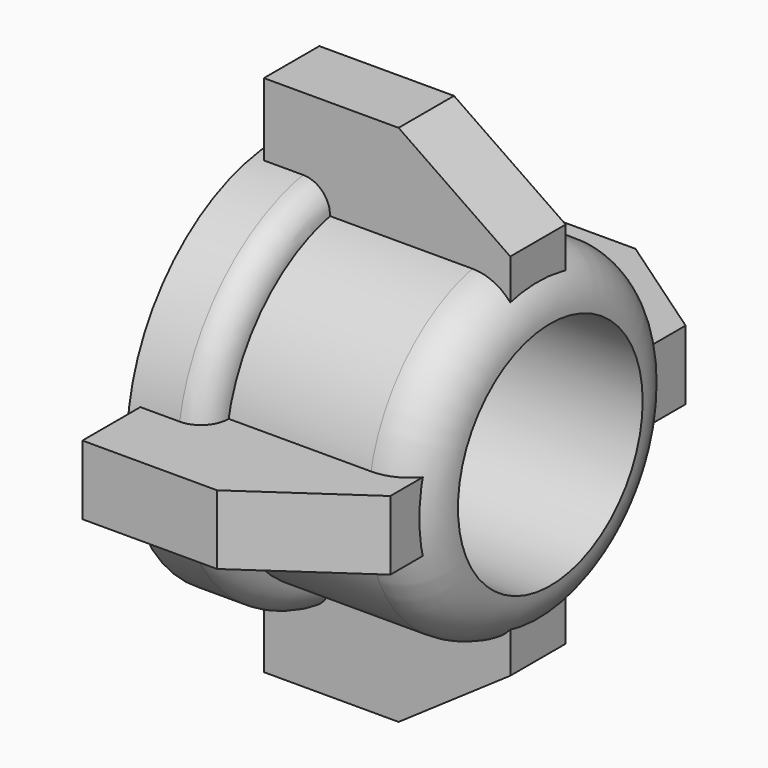
from build123d import *

# Parameters (mm, degrees)
F0_R      = 5
F1_DEPTH  = 2
F2_R      = 0.7
F3_R      = 4.298732
F4_DEPTH  = 5
F5_R      = 1.3
F6_R      = 3
F7_DEPTH  = 25
F9_DEPTH  = 0.9
F10_COUNT = 4


with BuildPart() as f1:
    # F0 (on Right) → F1 (new body)
    with BuildSketch(Plane.YZ):
        Circle(F0_R)
    extrude(amount=F1_DEPTH)

    # F2
    f2_edges = [f1.edges().sort_by_distance(p)[0] for p in [
        (2, -5, 0),
    ]]
    fillet(f2_edges, radius=F2_R)

    # F3 (on face) → F4 (join)
    with BuildSketch(Plane.YZ.offset(2)):
        Circle(F3_R)
    extrude(amount=F4_DEPTH)

    # F5
    f5_edges = [f1.edges().sort_by_distance(p)[0] for p in [
        (7, -4.298732, 0),
    ]]
    fillet(f5_edges, radius=F5_R)

    # F6 (on face) → F7 (cut)
    with BuildSketch(Plane.YZ.offset(7)):
        Circle(F6_R)
    extrude(amount=-F7_DEPTH, mode=Mode.SUBTRACT)


with BuildPart() as f9:
    # F8 (on Top) → F9 (new body, symmetric)
    with BuildSketch(Plane.XY):
        Polygon((0.277289, 6.79579), (0.277289, 4.79579), (0.277289, 3.434769), (6.679011, 3.434769), (6.679011, 4.79579), (3.777289, 6.79579), align=None)
    extrude(amount=F9_DEPTH, both=True)


with BuildPart() as f10_1:
    # F10: instance of F9
    add(f9.part.rotate(Axis((2, 0, 0), (-1, 0, 0)), 1 * 360 / F10_COUNT))


with BuildPart() as f10_2:
    # F10: instance of F9
    add(f9.part.rotate(Axis((2, 0, 0), (-1, 0, 0)), 2 * 360 / F10_COUNT))


with BuildPart() as f10_3:
    # F10: instance of F9
    add(f9.part.rotate(Axis((2, 0, 0), (-1, 0, 0)), 3 * 360 / F10_COUNT))


solid = Compound([f1.part, f9.part, f10_1.part, f10_2.part, f10_3.part])
